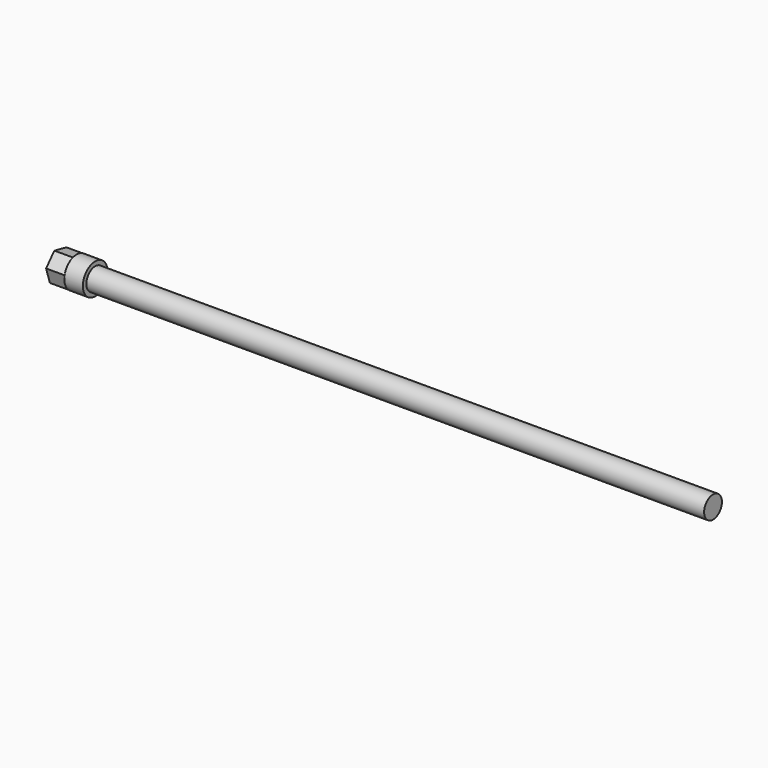
from build123d import *

# Parameters (mm, degrees)
F0_R     = 18
F1_DEPTH = 500
F2_R     = 25
F3_DEPTH = 30
F5_DEPTH = 30


with BuildPart() as f1:
    # F0 (on Right) → F1 (new body, symmetric)
    with BuildSketch(Plane.YZ):
        Circle(F0_R)
    extrude(amount=F1_DEPTH, both=True)

    # F2 (on face) → F3 (join)
    with BuildSketch(Plane(origin=(-500, 0, 0), x_dir=(0, -1, 0), z_dir=(-1, 0, 0))):
        Circle(F2_R)
    extrude(amount=F3_DEPTH)

    # F4 (on face) → F5 (join)
    with BuildSketch(Plane(origin=(-530, 0, 0), x_dir=(0, -1, 0), z_dir=(-1, 0, 0))):
        Polygon((-7.696053, -23.785936), (16.751199, -18.557945), (24.447252, 5.227991), (7.696053, 23.785936), (-16.751199, 18.557945), (-24.447252, -5.227991), align=None)
    extrude(amount=F5_DEPTH)


solid = f1.part
